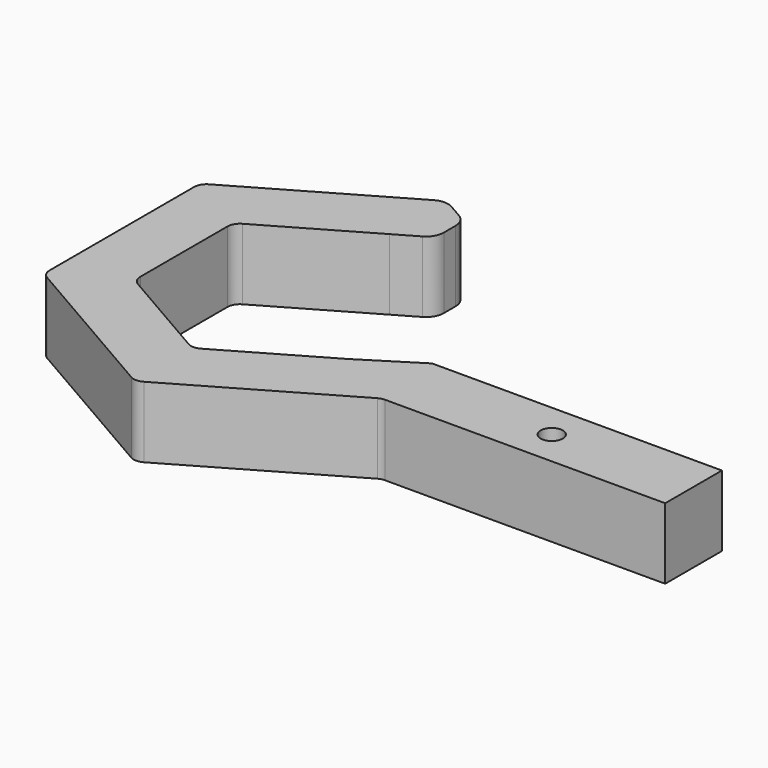
from build123d import *

# Parameters (mm, degrees)
F0_R     = 7.9375
F1_DEPTH = 50.8
F2_R     = 8.89
F3_R     = 12.7


with BuildPart() as f1:
    # F0 (on Top) → F1 (new body)
    with BuildSketch(Plane.XY):
        Polygon((-120.983749, -69.85), (0, -139.7), (120.983749, -69.85), (324.183749, -69.85), (324.183749, -19.05), (116.475461, -19.05), (76.533749, -44.186781), (0, -88.373561), (-76.533749, -44.186781), (-76.533749, 44.186781), (0, 88.373561), (22.636533, 101.44277), (22.636533, 126.630791), (0, 139.7), (-120.983749, 69.85), align=None)
        with Locations((222.583749, -44.45)):
            Circle(F0_R, mode=Mode.SUBTRACT)
    extrude(amount=F1_DEPTH)

    # F2
    f2_edges = [f1.edges().sort_by_distance(p)[0] for p in [
        (-120.983749, 69.85, 25.4),
        (-120.983749, -69.85, 25.4),
        (0, -139.7, 25.4),
        (120.983749, -69.85, 25.4),
        (-76.533749, 44.186781, 25.4),
        (-76.533749, -44.186781, 25.4),
        (0, -88.373561, 25.4),
    ]]
    fillet(f2_edges, radius=F2_R)

    # F3
    f3_edges = [f1.edges().sort_by_distance(p)[0] for p in [
        (0, 139.7, 25.4),
        (22.636533, 101.44277, 25.4),
        (22.636533, 126.630791, 25.4),
    ]]
    fillet(f3_edges, radius=F3_R)


solid = f1.part
